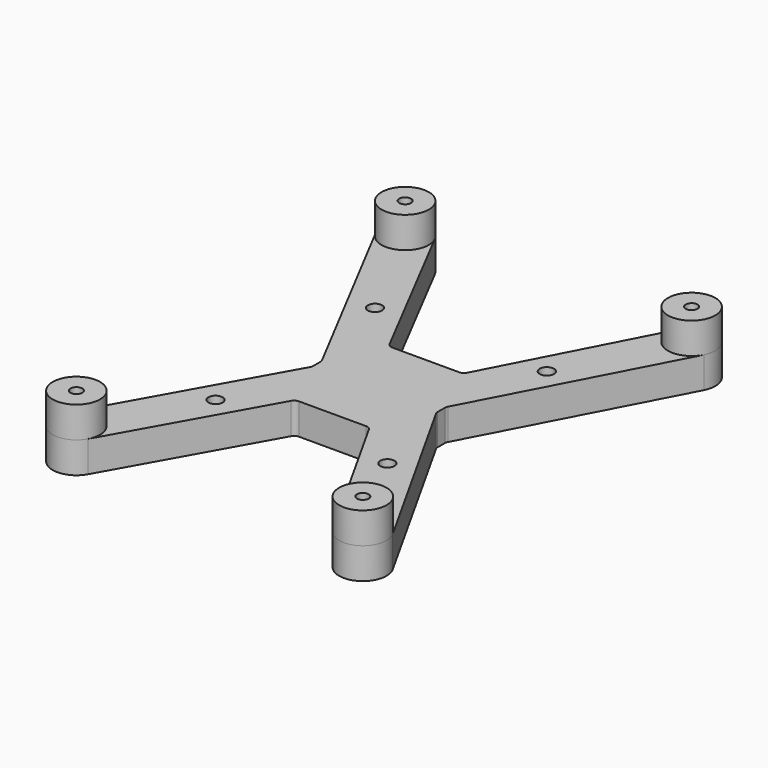
from build123d import *

# Parameters (mm, degrees)
SKETCH_R      = 0.95
SKETCH_R_2    = 1.15
PAD_DEPTH     = 5
SKETCH001_R   = 3.8
SKETCH001_R_2 = 0.95
PAD001_DEPTH  = 5
FILLET_R      = 1


with BuildPart() as part:
    # Sketch → Pad (new body)
    with BuildSketch(Plane.XY):
        with BuildLine():
            ThreePointArc((-26.31583, -31.143856), (-24.856144, -36.31583), (-19.68417, -34.856144))
            Line((-19.68417, -34.856144), (-5.959198, -10.337748))
            Line((-5.959198, -10.337748), (0, -10.337748))
            Line((0, -10.337748), (0, 8.381557))
            Line((-5.959198, 8.381557), (0, 8.381557))
            Line((-19.626283, 34.748723), (-5.959198, 8.381557))
            ThreePointArc((-19.626283, 34.748723), (-24.755923, 36.369975), (-26.366218, 31.236885))
            Line((-26.366218, 31.236885), (-9.988881, -0.031456))
            Line((-9.988881, -0.031456), (-9.988881, -1.977268))
            Line((-9.988881, -1.977268), (-26.31583, -31.143856))
        make_face()
        with Locations((-23, 33)):
            Circle(SKETCH_R, mode=Mode.SUBTRACT)
        with Locations((-23, -33)):
            Circle(SKETCH_R, mode=Mode.SUBTRACT)
        with Locations((-13.8, 15.434951)):
            Circle(SKETCH_R_2, mode=Mode.SUBTRACT)
        with Locations((-13.8, -16.565049)):
            Circle(SKETCH_R_2, mode=Mode.SUBTRACT)
    extrude(amount=PAD_DEPTH)

    # Sketch001 (on Face16 of Pad) → Pad001 (join)
    with BuildSketch(Plane.XY.offset(5)):
        with Locations((-23, 33)):
            Circle(SKETCH001_R)
        with Locations((-23, 33)):
            Circle(SKETCH001_R_2, mode=Mode.SUBTRACT)
        with Locations((-23, -33)):
            Circle(SKETCH001_R)
        with Locations((-23, -33)):
            Circle(SKETCH001_R_2, mode=Mode.SUBTRACT)
    extrude(amount=PAD001_DEPTH)

    # Mirrored: part across Sketch001 V_Axis


with BuildPart() as part_1:
    add(part.part)
    add(part.part.mirror(Plane(origin=(0, 0, 5), x_dir=(0, 0, 1), z_dir=(1, 0, 0))))

    # Fillet
    fillet_edges = [part_1.edges().sort_by_distance(p)[0] for p in [
        (-5.959198, -10.337748, 2.5),
        (5.959198, -10.337748, 2.5),
        (-9.988881, -0.031456, 2.5),
        (-9.988881, -1.977268, 2.5),
        (-5.959198, 8.381557, 2.5),
        (5.959198, 8.381557, 2.5),
        (9.988881, -1.977268, 2.5),
        (9.988881, -0.031456, 2.5),
    ]]
    fillet(fillet_edges, radius=FILLET_R)


solid = part_1.part
